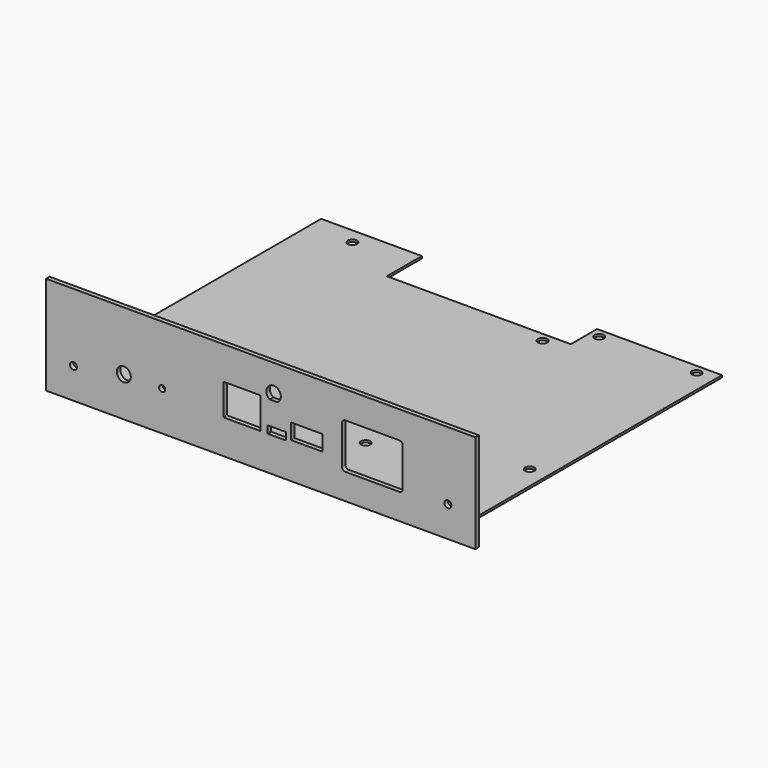
from build123d import *

# Parameters (mm, degrees)
F0_R       = 1.6
F3_DEPTH   = 1
F4_D       = 4.3
F4_ON_F2_D = 4.3
F6_W       = 196
F6_H       = 45
F8_DEPTH   = 2
F7_R       = 3.2
F7_R_2     = 1.4
F7_R_3     = 1.6
F9_DEPTH   = 2.001


with BuildPart() as f3:
    # F0 (on Top) → F3 (new body)
    with BuildSketch(Plane.XY):
        Polygon((34, 62.2000009459), (34, 47.2000009459), (-50, 47.2000009459), (-50, 67.2000009459), (-96, 67.2000009459), (-96, -82.1999990541), (91, -82.1999990541), (91, 62.2000009459), align=None)
        with Locations((-88, -77.2999990541)):
            Circle(F0_R, mode=Mode.SUBTRACT)
        with Locations((83, -77.2999990541)):
            Circle(F0_R, mode=Mode.SUBTRACT)
    extrude(amount=F3_DEPTH)

    # F4 (through all)
    with Locations(Plane(origin=(0, 0, 0), x_dir=(1, 0, 0), z_dir=(0, 0, -1))):
        with Locations((-76, -60), (-76, 78), (-23.1, 78), (24.5, 58), (24.5, -43)):
            Hole(F4_D / 2)

    # F4 on F2 (through all)
    with Locations(Plane(origin=(0, 0, 0), x_dir=(1, 0, 0), z_dir=(0, 0, -1))):
        with Locations((38.35, -57.9750009459), (82.85, -57.9750009459), (82.85, 37.3249990541), (38.35, 37.3249990541)):
            Hole(F4_ON_F2_D / 2)


with BuildPart() as f8:
    # F6 (on offset) → F8 (new body)
    with BuildSketch(Plane.XZ.offset(82.2)):
        with Locations((-2.5, 14.5)):
            Rectangle(F6_W, F6_H)
    extrude(amount=F8_DEPTH)

    # F7 (on offset) → F9 (cut, through all)
    with BuildSketch(Plane.XZ.offset(82.2)):
        with BuildLine():
            ThreePointArc((34.65, 5.3), (35.0893398282, 4.2393398282), (36.15, 3.8))
            Line((36.15, 3.8), (60.85, 3.8))
            ThreePointArc((60.85, 3.8), (61.9106601718, 4.2393398282), (62.35, 5.3))
            Line((62.35, 5.3), (62.35, 23))
            ThreePointArc((62.35, 23), (61.9106601718, 24.0606601718), (60.85, 24.5))
            Line((60.85, 24.5), (36.15, 24.5))
            ThreePointArc((36.15, 24.5), (35.0893398282, 24.0606601718), (34.65, 23))
            Line((34.65, 23), (34.65, 5.3))
        make_face()
        with Locations((-65, 10.1)):
            Circle(F7_R)
        with BuildLine():
            ThreePointArc((-19.4, 7.9), (-19.3121320344, 7.6878679656), (-19.1, 7.6))
            Line((-19.1, 7.6), (-2.9, 7.6))
            ThreePointArc((-2.9, 7.6), (-2.6878679656, 7.6878679656), (-2.6, 7.9))
            Line((-2.6, 7.9), (-2.6, 21.65))
            ThreePointArc((-2.6, 21.65), (-2.6878679656, 21.8621320344), (-2.9, 21.95))
            Line((-2.9, 21.95), (-19.1, 21.95))
            ThreePointArc((-19.1, 21.95), (-19.3121320344, 21.8621320344), (-19.4, 21.65))
            Line((-19.4, 21.65), (-19.4, 7.9))
        make_face()
        with BuildLine():
            ThreePointArc((0.6, 7.9), (0.6878679656, 7.6878679656), (0.9, 7.6))
            Line((0.9, 7.6), (8.7, 7.6))
            ThreePointArc((8.7, 7.6), (8.9121320344, 7.6878679656), (9, 7.9))
            Line((9, 7.9), (9, 10.7))
            ThreePointArc((9, 10.7), (8.9121320344, 10.9121320344), (8.7, 11))
            Line((8.7, 11), (0.9, 11))
            ThreePointArc((0.9, 11), (0.6878679656, 10.9121320344), (0.6, 10.7))
            Line((0.6, 10.7), (0.6, 7.9))
        make_face()
        with BuildLine():
            ThreePointArc((11.3, 8.8), (11.3878679656, 8.5878679656), (11.6, 8.5))
            Line((11.6, 8.5), (25.4, 8.5))
            ThreePointArc((25.4, 8.5), (25.6121320344, 8.5878679656), (25.7, 8.8))
            Line((25.7, 8.8), (25.7, 15.3))
            ThreePointArc((25.7, 15.3), (25.6121320344, 15.5121320344), (25.4, 15.6))
            Line((25.4, 15.6), (11.6, 15.6))
            ThreePointArc((11.6, 15.6), (11.3878679656, 15.5121320344), (11.3, 15.3))
            Line((11.3, 15.3), (11.3, 8.8))
        make_face()
        with Locations((-47.5, 10.1)):
            Circle(F7_R_2)
        with BuildLine():
            Line((1.6535750803, 21.7), (5.1464249197, 21.7))
            ThreePointArc((5.1464249197, 21.7), (3.4, 27.8), (1.6535750803, 21.7))
        make_face()
        with Locations((-88, 6)):
            Circle(F7_R_3)
        with Locations((83, 6)):
            Circle(F7_R_3)
    extrude(amount=F9_DEPTH, mode=Mode.SUBTRACT)


solid = Compound([f3.part, f8.part])
